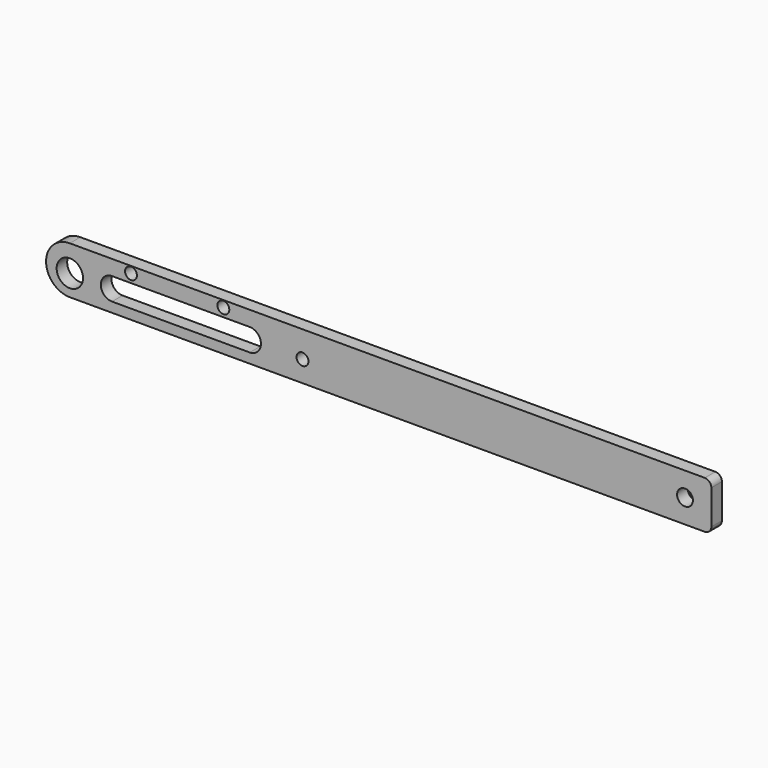
from build123d import *

# Parameters (mm, degrees)
F0_R     = 5
F0_R_2   = 2.25
F0_R_3   = 3
F1_DEPTH = 5


with BuildPart() as f1:
    # F0 (on Front) → F1 (new body)
    with BuildSketch(Plane.XZ):
        with BuildLine():
            Line((202.068551, 10), (-38.631449, 10))
            ThreePointArc((-38.631449, 10), (-47.631449, 1), (-38.631449, -8))
            Line((-38.631449, -8), (202.068551, -8))
            ThreePointArc((202.068551, -8), (203.836318, -7.267767), (204.568551, -5.5))
            Line((204.568551, -5.5), (204.568551, 7.5))
            ThreePointArc((204.568551, 7.5), (203.836318, 9.267767), (202.068551, 10))
        make_face()
        with Locations((-38.631449, 0)):
            Circle(F0_R, mode=Mode.SUBTRACT)
        with BuildLine():
            ThreePointArc((-22.631449, -4.25), (-26.881449, 0), (-22.631449, 4.25))
            Line((-22.631449, 4.25), (29.568551, 4.25))
            ThreePointArc((29.568551, 4.25), (33.818551, 0), (29.568551, -4.25))
            Line((29.568551, -4.25), (-22.631449, -4.25))
        make_face(mode=Mode.SUBTRACT)
        with Locations((49.568551, 0)):
            Circle(F0_R_2, mode=Mode.SUBTRACT)
        with Locations((-15.431449, 7.5)):
            Circle(F0_R_2, mode=Mode.SUBTRACT)
        with Locations((19.568551, 7.5)):
            Circle(F0_R_2, mode=Mode.SUBTRACT)
        with Locations((194.568551, 1)):
            Circle(F0_R_3, mode=Mode.SUBTRACT)
    extrude(amount=F1_DEPTH)


solid = f1.part
